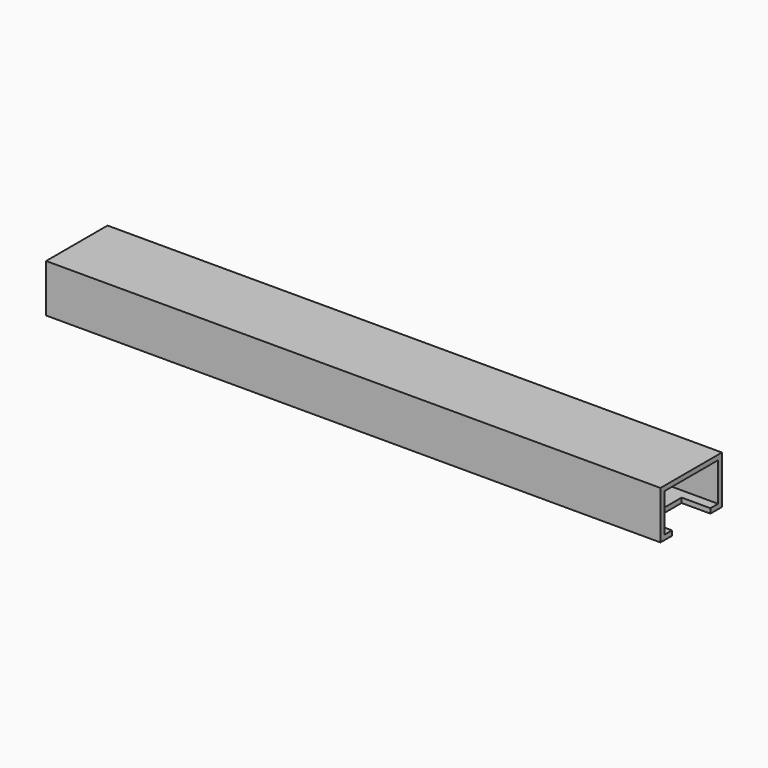
from build123d import *

# Parameters (mm, degrees)
F0_W     = 406.4
F0_H     = 31.75
F1_DEPTH = 50.8
F2_T     = -3.175
F3_W     = 19.05
F3_H     = 31.75
F4_DEPTH = 3.175


with BuildPart() as f1:
    # F0 (on Front) → F1 (new body)
    with BuildSketch(Plane.XZ):
        with Locations((203.2, 15.875)):
            Rectangle(F0_W, F0_H)
    extrude(amount=F1_DEPTH)

    # F2
    f2_openings = [f1.faces().sort_by_distance(p)[0] for p in [
        (0, -25.4, 15.875),
        (406.4, -25.4, 15.875),
    ]]
    offset(amount=F2_T, openings=f2_openings)

    # F3 (on face) → F4 (cut)
    with BuildSketch(Plane(origin=(0, 0, 0), x_dir=(1, 0, 0), z_dir=(0, 0, -1))):
        with Locations((9.525, 25.4)):
            Rectangle(F3_W, F3_H)
        with Locations((396.875, 25.4)):
            Rectangle(F3_W, F3_H)
    extrude(amount=-F4_DEPTH, mode=Mode.SUBTRACT)


solid = f1.part
